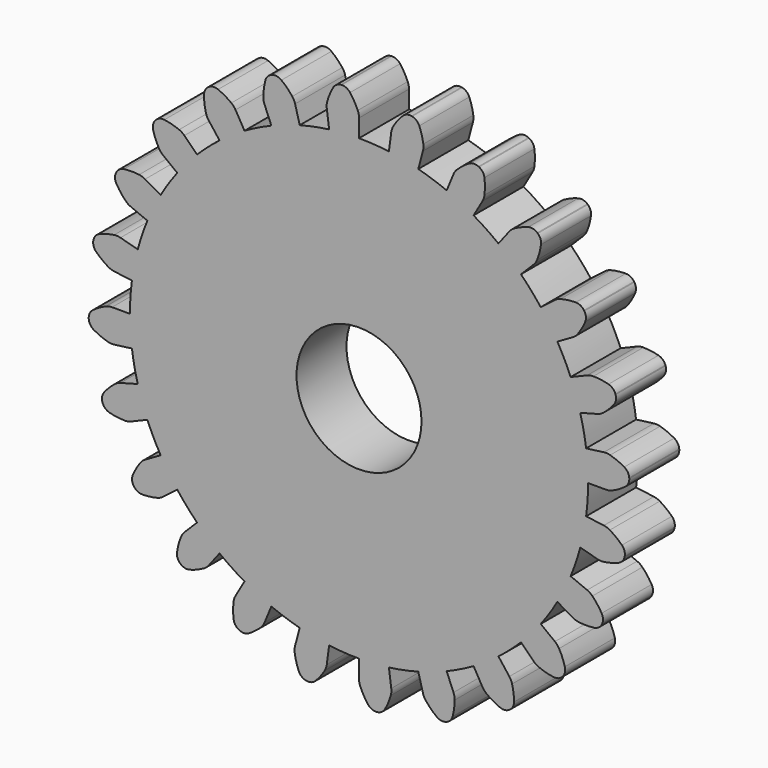
from build123d import *

# Parameters (mm, degrees)
F4_R     = 23.2791
F5_DEPTH = 6.35
F6_COUNT = 24
F8_R     = 6.35
F9_DEPTH = 6.3510001


with BuildPart() as f3:
    # F0 (on Front) → F3 section 0
    with BuildSketch(Plane.XZ):
        with BuildLine():
            ThreePointArc((-3.0385322813, 23.0799440724), (-1.5225259857, 23.22925766), (0, 23.2791))
            Line((0, 23.2791), (0, 25.0966573975))
            ThreePointArc((0, 25.0966573975), (-0.0325857473, 25.4179447998), (-0.1290158666, 25.7261471001))
            ThreePointArc((-0.1290158666, 25.7261471001), (-0.4782343377, 26.4211993403), (-0.9098140995, 27.0683392529))
            ThreePointArc((-0.9098140995, 27.0683392529), (-1.2882906755, 27.374113565), (-1.7655416291, 27.4688446363))
            Line((-1.7655416291, 27.4688446363), (-1.8002986667, 27.4672498123))
            Line((-1.8002986667, 27.4672498123), (-1.8349665194, 27.4642942885))
            ThreePointArc((-1.8349665194, 27.4642942885), (-2.2957696388, 27.308079905), (-2.6310967386, 26.9555204282))
            ThreePointArc((-2.6310967386, 26.9555204282), (-2.9745155671, 26.2575844244), (-3.2300239035, 25.5228962951))
            ThreePointArc((-3.2300239035, 25.5228962951), (-3.285400577, 25.204744052), (-3.2757711275, 24.8819520144))
            Line((-3.2757711275, 24.8819520144), (-3.0385322813, 23.0799440724))
        make_face()
    # F2 (on offset) → F3 section 1
    with BuildSketch(Plane.XZ.offset(6.35)):
        with BuildLine():
            ThreePointArc((-3.0385322813, 23.0799440724), (-1.5225259857, 23.22925766), (0, 23.2791))
            Line((0, 23.2791), (0, 25.0966573975))
            ThreePointArc((0, 25.0966573975), (-0.0325857473, 25.4179447998), (-0.1290158666, 25.7261471001))
            ThreePointArc((-0.1290158666, 25.7261471001), (-0.4782343377, 26.4211993403), (-0.9098140995, 27.0683392529))
            ThreePointArc((-0.9098140995, 27.0683392529), (-1.2882906755, 27.374113565), (-1.7655416291, 27.4688446363))
            Line((-1.7655416291, 27.4688446363), (-1.8002986667, 27.4672498123))
            Line((-1.8002986667, 27.4672498123), (-1.8349665194, 27.4642942885))
            ThreePointArc((-1.8349665194, 27.4642942885), (-2.2957696388, 27.308079905), (-2.6310967386, 26.9555204282))
            ThreePointArc((-2.6310967386, 26.9555204282), (-2.9745155671, 26.2575844244), (-3.2300239035, 25.5228962951))
            ThreePointArc((-3.2300239035, 25.5228962951), (-3.285400577, 25.204744052), (-3.2757711275, 24.8819520144))
            Line((-3.2757711275, 24.8819520144), (-3.0385322813, 23.0799440724))
        make_face()
    loft()

    # F4 (on offset) → F5 (join, through all)
    with BuildSketch(Plane.XZ.offset(6.35)):
        Circle(F4_R)
    extrude(amount=-F5_DEPTH)


with BuildPart() as f6_1:
    # F6: instance of F3
    add(f3.part.rotate(Axis((0, -6.35, 0), (0, -1, 0)), 1 * 360 / F6_COUNT))


with BuildPart() as f6_2:
    # F6: instance of F3
    add(f3.part.rotate(Axis((0, -6.35, 0), (0, -1, 0)), 2 * 360 / F6_COUNT))


with BuildPart() as f6_3:
    # F6: instance of F3
    add(f3.part.rotate(Axis((0, -6.35, 0), (0, -1, 0)), 3 * 360 / F6_COUNT))


with BuildPart() as f6_4:
    # F6: instance of F3
    add(f3.part.rotate(Axis((0, -6.35, 0), (0, -1, 0)), 4 * 360 / F6_COUNT))


with BuildPart() as f6_5:
    # F6: instance of F3
    add(f3.part.rotate(Axis((0, -6.35, 0), (0, -1, 0)), 5 * 360 / F6_COUNT))


with BuildPart() as f6_6:
    # F6: instance of F3
    add(f3.part.rotate(Axis((0, -6.35, 0), (0, -1, 0)), 6 * 360 / F6_COUNT))


with BuildPart() as f6_7:
    # F6: instance of F3
    add(f3.part.rotate(Axis((0, -6.35, 0), (0, -1, 0)), 7 * 360 / F6_COUNT))


with BuildPart() as f6_8:
    # F6: instance of F3
    add(f3.part.rotate(Axis((0, -6.35, 0), (0, -1, 0)), 8 * 360 / F6_COUNT))


with BuildPart() as f6_9:
    # F6: instance of F3
    add(f3.part.rotate(Axis((0, -6.35, 0), (0, -1, 0)), 9 * 360 / F6_COUNT))


with BuildPart() as f6_10:
    # F6: instance of F3
    add(f3.part.rotate(Axis((0, -6.35, 0), (0, -1, 0)), 10 * 360 / F6_COUNT))


with BuildPart() as f6_11:
    # F6: instance of F3
    add(f3.part.rotate(Axis((0, -6.35, 0), (0, -1, 0)), 11 * 360 / F6_COUNT))


with BuildPart() as f6_12:
    # F6: instance of F3
    add(f3.part.rotate(Axis((0, -6.35, 0), (0, -1, 0)), 12 * 360 / F6_COUNT))


with BuildPart() as f6_13:
    # F6: instance of F3
    add(f3.part.rotate(Axis((0, -6.35, 0), (0, -1, 0)), 13 * 360 / F6_COUNT))


with BuildPart() as f6_14:
    # F6: instance of F3
    add(f3.part.rotate(Axis((0, -6.35, 0), (0, -1, 0)), 14 * 360 / F6_COUNT))


with BuildPart() as f6_15:
    # F6: instance of F3
    add(f3.part.rotate(Axis((0, -6.35, 0), (0, -1, 0)), 15 * 360 / F6_COUNT))


with BuildPart() as f6_16:
    # F6: instance of F3
    add(f3.part.rotate(Axis((0, -6.35, 0), (0, -1, 0)), 16 * 360 / F6_COUNT))


with BuildPart() as f6_17:
    # F6: instance of F3
    add(f3.part.rotate(Axis((0, -6.35, 0), (0, -1, 0)), 17 * 360 / F6_COUNT))


with BuildPart() as f6_18:
    # F6: instance of F3
    add(f3.part.rotate(Axis((0, -6.35, 0), (0, -1, 0)), 18 * 360 / F6_COUNT))


with BuildPart() as f6_19:
    # F6: instance of F3
    add(f3.part.rotate(Axis((0, -6.35, 0), (0, -1, 0)), 19 * 360 / F6_COUNT))


with BuildPart() as f6_20:
    # F6: instance of F3
    add(f3.part.rotate(Axis((0, -6.35, 0), (0, -1, 0)), 20 * 360 / F6_COUNT))


with BuildPart() as f6_21:
    # F6: instance of F3
    add(f3.part.rotate(Axis((0, -6.35, 0), (0, -1, 0)), 21 * 360 / F6_COUNT))


with BuildPart() as f6_22:
    # F6: instance of F3
    add(f3.part.rotate(Axis((0, -6.35, 0), (0, -1, 0)), 22 * 360 / F6_COUNT))


with BuildPart() as f6_23:
    # F6: instance of F3
    add(f3.part.rotate(Axis((0, -6.35, 0), (0, -1, 0)), 23 * 360 / F6_COUNT))

    # F7: union F6_22, F6_21, F6_20, F6_19, F6_18, F6_17, F6_16, F6_15, F6_14, F6_13, F6_12, F6_11, F6_10, F6_8, F6_9, F6_7, F6_6, F6_5, F6_4, F6_3, F6_2, F6_1, F3
    add(f6_22.part)
    add(f6_21.part)
    add(f6_20.part)
    add(f6_19.part)
    add(f6_18.part)
    add(f6_17.part)
    add(f6_16.part)
    add(f6_15.part)
    add(f6_14.part)
    add(f6_13.part)
    add(f6_12.part)
    add(f6_11.part)
    add(f6_10.part)
    add(f6_8.part)
    add(f6_9.part)
    add(f6_7.part)
    add(f6_6.part)
    add(f6_5.part)
    add(f6_4.part)
    add(f6_3.part)
    add(f6_2.part)
    add(f6_1.part)
    add(f3.part)

    # F8 (on face) → F9 (cut, through all)
    with BuildSketch(Plane.XZ.offset(6.35)):
        Circle(F8_R)
    extrude(amount=-F9_DEPTH, mode=Mode.SUBTRACT)


solid = f6_23.part
